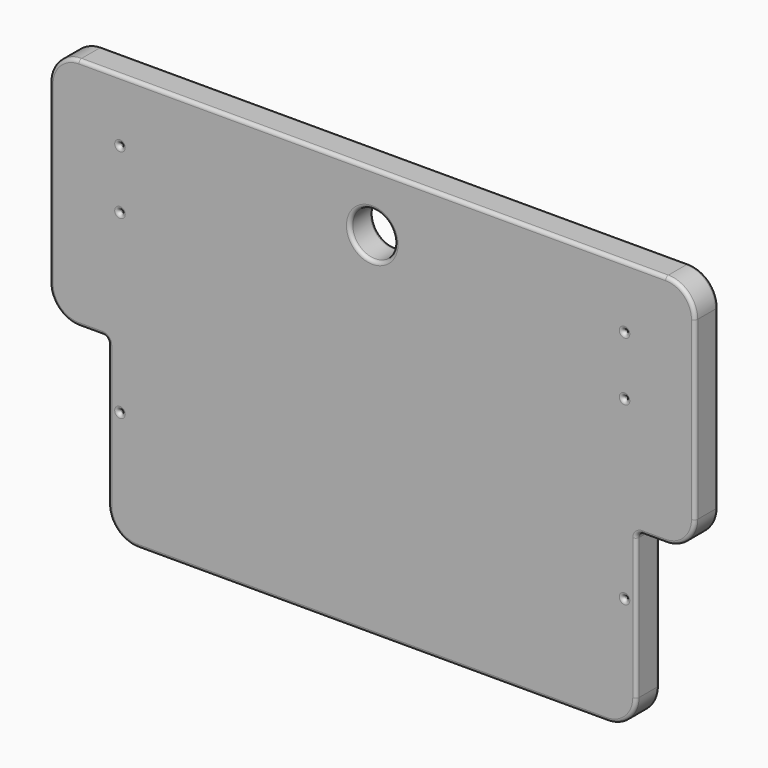
from build123d import *

# Parameters (mm, degrees)
F0_R     = 1.5
F1_DEPTH = 25
F2_R     = 3


with BuildPart() as f1:
    # F0 (on Front) → F1 (new body)
    with BuildSketch(Plane.XZ):
        with BuildLine():
            Line((-22.4166688968, 253), (-272.4166688968, 253))
            ThreePointArc((-272.4166688968, 253), (-290.0943384264, 245.6776695297), (-297.4166688968, 228))
            Line((-297.4166688968, 228), (-297.4166688968, 78))
            ThreePointArc((-297.4166688968, 78), (-290.0943384264, 60.3223304703), (-272.4166688968, 53))
            Line((-272.4166688968, 53), (-252.4166688968, 53))
            ThreePointArc((-252.4166688968, 53), (-248.8811349908, 51.5355339059), (-247.4166688968, 48))
            Line((-247.4166688968, 48), (-247.4166688968, 42.7206105292))
            Line((-247.4166688968, 42.7206105292), (-247.4166688968, -72))
            ThreePointArc((-247.4166688968, -72), (-240.0943384264, -89.6776695297), (-222.4166688968, -97))
            Line((-222.4166688968, -97), (-22.4166688968, -97))
            Line((-22.4166688968, -97), (177.5833311032, -97))
            ThreePointArc((177.5833311032, -97), (195.2610006329, -89.6776695297), (202.5833311032, -72))
            Line((202.5833311032, -72), (202.5833311032, 48))
            ThreePointArc((202.5833311032, 48), (204.0477971973, 51.5355339059), (207.5833311032, 53))
            Line((207.5833311032, 53), (227.5833311032, 53))
            ThreePointArc((227.5833311032, 53), (245.2610006329, 60.3223304703), (252.5833311032, 78))
            Line((252.5833311032, 78), (252.5833311032, 228))
            ThreePointArc((252.5833311032, 228), (245.2610006329, 245.6776695297), (227.5833311032, 253))
            Line((227.5833311032, 253), (-22.4166688968, 253))
        make_face()
        with Locations((-237.4166688968, 0)):
            Circle(F0_R, mode=Mode.SUBTRACT)
        with Locations((192.5833311032, 0)):
            Circle(F0_R, mode=Mode.SUBTRACT)
        with Locations((-237.4166688968, 150)):
            Circle(F0_R, mode=Mode.SUBTRACT)
        with Locations((-237.4166688968, 200)):
            Circle(F0_R, mode=Mode.SUBTRACT)
        with Locations((192.5833311032, 150)):
            Circle(F0_R, mode=Mode.SUBTRACT)
        with BuildLine():
            ThreePointArc((-3.4166688968, 203), (-35.8516977393, 189.5649711575), (-22.4166688968, 222))
            ThreePointArc((-22.4166688968, 222), (-8.9816400542, 216.4350288425), (-3.4166688968, 203))
        make_face(mode=Mode.SUBTRACT)
        with Locations((192.5833311032, 200)):
            Circle(F0_R, mode=Mode.SUBTRACT)
    extrude(amount=F1_DEPTH)

    # F2
    f2_edges = [f1.edges().sort_by_distance(p)[0] for p in [
        (252.583331, -25, 153),
        (245.261001, -25, 245.67767),
        (-22.416669, -25, 253),
        (-290.094338, -25, 245.67767),
        (-297.416669, -25, 153),
        (-290.094338, -25, 60.32233),
        (-262.416669, -25, 53),
        (-248.881135, -25, 51.535534),
        (-247.416669, -25, -12),
        (-240.094338, -25, -89.67767),
        (-22.416669, -25, -97),
        (195.261001, -25, -89.67767),
        (202.583331, -25, -12),
        (204.047797, -25, 51.535534),
        (217.583331, -25, 53),
        (245.261001, -25, 60.32233),
        (-238.916669, -25, 0),
        (191.083331, -25, 0),
        (-238.916669, -25, 150),
        (-238.916669, -25, 200),
        (191.083331, -25, 150),
        (-22.416669, -25, 184),
        (191.083331, -25, 200),
        (252.583331, 0, 153),
        (245.261001, 0, 245.67767),
        (-22.416669, 0, 253),
        (-290.094338, 0, 245.67767),
        (-297.416669, 0, 153),
        (-290.094338, 0, 60.32233),
        (-262.416669, 0, 53),
        (-248.881135, 0, 51.535534),
        (-247.416669, 0, -12),
        (-240.094338, 0, -89.67767),
        (-22.416669, 0, -97),
        (195.261001, 0, -89.67767),
        (202.583331, 0, -12),
        (204.047797, 0, 51.535534),
        (217.583331, 0, 53),
        (245.261001, 0, 60.32233),
        (-238.916669, 0, 0),
        (191.083331, 0, 0),
        (-238.916669, 0, 150),
        (-238.916669, 0, 200),
        (191.083331, 0, 150),
        (-22.416669, 0, 184),
        (191.083331, 0, 200),
    ]]
    fillet(f2_edges, radius=F2_R)


solid = f1.part
